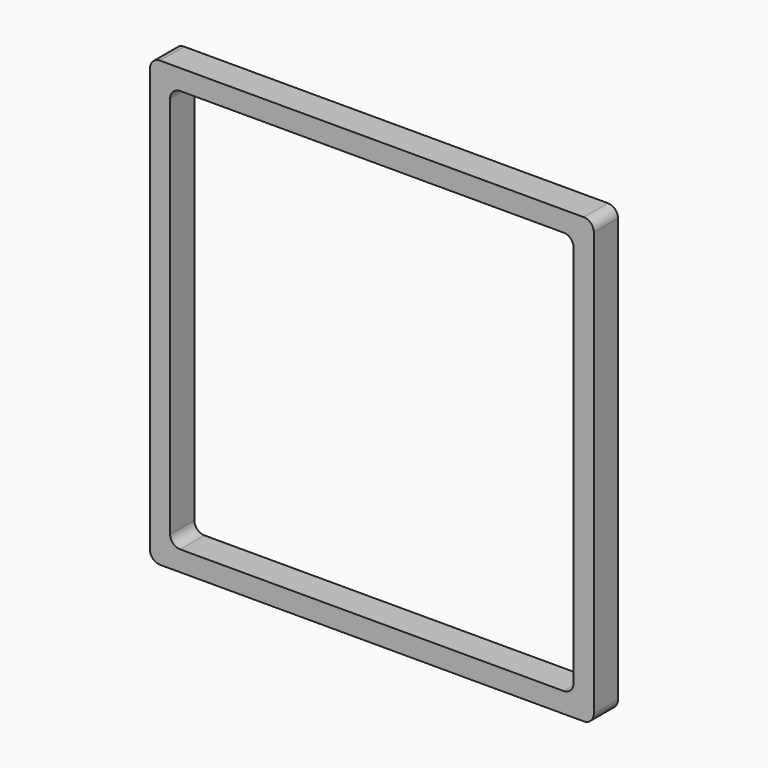
from build123d import *

# Parameters (mm, degrees)
F1_DEPTH = 19.05


with BuildPart() as f1:
    # F0 (on Front) → F1 (new body)
    with BuildSketch(Plane.XZ):
        with BuildLine():
            Line((-159.199445, -158.121514), (107.500555, -158.121514))
            ThreePointArc((107.500555, -158.121514), (111.990683, -156.261642), (113.850555, -151.771514))
            Line((113.850555, -151.771514), (113.850555, 114.928486))
            ThreePointArc((113.850555, 114.928486), (111.990683, 119.418614), (107.500555, 121.278486))
            Line((107.500555, 121.278486), (-159.199445, 121.278486))
            ThreePointArc((-159.199445, 121.278486), (-163.689573, 119.418614), (-165.549445, 114.928486))
            Line((-165.549445, 114.928486), (-165.549445, -151.771514))
            ThreePointArc((-165.549445, -151.771514), (-163.689573, -156.261642), (-159.199445, -158.121514))
        make_face()
        with BuildLine():
            Line((-121.099445, -145.421514), (-146.499445, -145.421514))
            ThreePointArc((-146.499445, -145.421514), (-150.989573, -143.561642), (-152.849445, -139.071514))
            Line((-152.849445, -139.071514), (-152.849445, -113.671514))
            Line((-152.849445, -113.671514), (-152.849445, -81.921514))
            Line((-152.849445, -81.921514), (-152.849445, -50.171514))
            Line((-152.849445, -50.171514), (-152.849445, -18.421514))
            Line((-152.849445, -18.421514), (-152.849445, 13.328486))
            Line((-152.849445, 13.328486), (-152.849445, 45.078486))
            Line((-152.849445, 45.078486), (-152.849445, 76.828486))
            Line((-152.849445, 76.828486), (-152.849445, 102.228486))
            ThreePointArc((-152.849445, 102.228486), (-150.989573, 106.718614), (-146.499445, 108.578486))
            Line((-146.499445, 108.578486), (-121.099445, 108.578486))
            Line((-121.099445, 108.578486), (-89.349445, 108.578486))
            Line((-89.349445, 108.578486), (-57.599445, 108.578486))
            Line((-57.599445, 108.578486), (-25.849445, 108.578486))
            Line((-25.849445, 108.578486), (5.900555, 108.578486))
            Line((5.900555, 108.578486), (37.650555, 108.578486))
            Line((37.650555, 108.578486), (69.400555, 108.578486))
            Line((69.400555, 108.578486), (94.800555, 108.578486))
            ThreePointArc((94.800555, 108.578486), (99.290683, 106.718614), (101.150555, 102.228486))
            Line((101.150555, 102.228486), (101.150555, 76.828486))
            Line((101.150555, 76.828486), (101.150555, 45.078486))
            Line((101.150555, 45.078486), (101.150555, 13.328486))
            Line((101.150555, 13.328486), (101.150555, -18.421514))
            Line((101.150555, -18.421514), (101.150555, -50.171514))
            Line((101.150555, -50.171514), (101.150555, -81.921514))
            Line((101.150555, -81.921514), (101.150555, -113.671514))
            Line((101.150555, -113.671514), (101.150555, -139.071514))
            ThreePointArc((101.150555, -139.071514), (99.290683, -143.561642), (94.800555, -145.421514))
            Line((94.800555, -145.421514), (69.400555, -145.421514))
            Line((69.400555, -145.421514), (37.650555, -145.421514))
            Line((37.650555, -145.421514), (5.900555, -145.421514))
            Line((5.900555, -145.421514), (-25.849445, -145.421514))
            Line((-25.849445, -145.421514), (-57.599445, -145.421514))
            Line((-57.599445, -145.421514), (-89.349445, -145.421514))
            Line((-89.349445, -145.421514), (-121.099445, -145.421514))
        make_face(mode=Mode.SUBTRACT)
    extrude(amount=F1_DEPTH)


solid = f1.part
